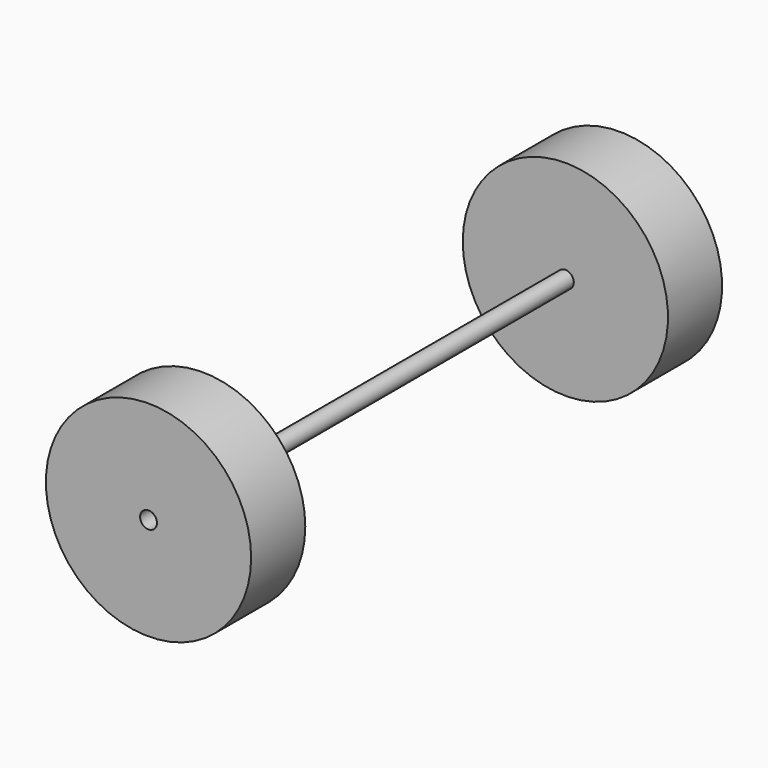
from build123d import *

# Parameters (mm, degrees)
F0_R     = 3.1631883426
F1_DEPTH = 170.18
F3_R     = 38.5153090503
F3_R_2   = 3.1631883426
F4_DEPTH = 25.4
F2_R     = 38.5205339889
F2_R_2   = 3.1631883426
F5_DEPTH = 25.4


with BuildPart() as f1:
    # F0 (on Front) → F1 (new body)
    with BuildSketch(Plane.XZ):
        Circle(F0_R)
    extrude(amount=F1_DEPTH)


with BuildPart() as f4:
    # F3 (on face) → F4 (new body)
    with BuildSketch(Plane(origin=(0, 0, 0), x_dir=(-1, 0, 0), z_dir=(0, 1, 0))):
        Circle(F3_R)
        Circle(F3_R_2, mode=Mode.SUBTRACT)
    extrude(amount=F4_DEPTH)


with BuildPart() as f5:
    # F2 (on face) → F5 (new body)
    with BuildSketch(Plane.XZ.offset(170.18)):
        Circle(F2_R)
        Circle(F2_R_2, mode=Mode.SUBTRACT)
    extrude(amount=F5_DEPTH)


solid = Compound([f1.part, f4.part, f5.part])
